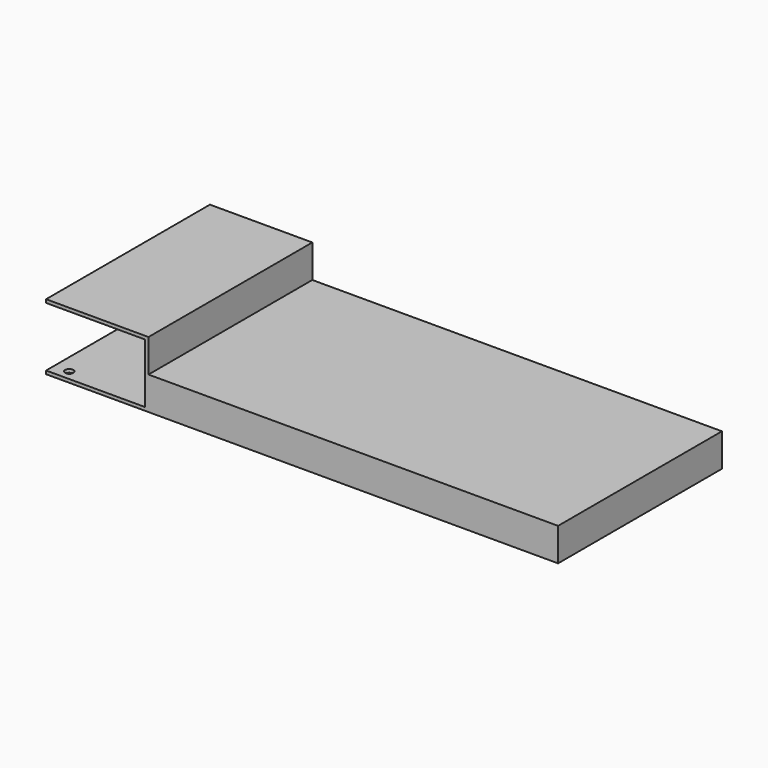
from build123d import *

# Parameters (mm, degrees)
F1_DEPTH = 620
F2_R     = 12.5
F3_DEPTH = 25
F5_DEPTH = 300
F6_W     = 620
F6_H     = 100
F7_DEPTH = 620
F8_R     = 12.5
F9_DEPTH = 25


with BuildPart() as f1:
    # F0 (on Front) → F1 (new body)
    with BuildSketch(Plane.XZ):
        Polygon((266.030722, -36.945744), (266.030722, 63.054256), (-353.969278, 63.054256), (-353.969278, 163.054256), (-663.969278, 163.054256), (-663.969278, -36.945744), (-353.969278, -36.945744), align=None)
    extrude(amount=F1_DEPTH)

    # F2 (on face) → F3 (cut)
    with BuildSketch(Plane(origin=(0, 0, -36.945744), x_dir=(1, 0, 0), z_dir=(0, 0, -1))):
        with Locations((-618.232899, 589.50908)):
            Circle(F2_R)
        with Locations((-618.232899, 30.49092)):
            Circle(F2_R)
        with Locations((220.294342, 589.50908)):
            Circle(F2_R)
        with Locations((220.294342, 30.49092)):
            Circle(F2_R)
    extrude(amount=-F3_DEPTH, mode=Mode.SUBTRACT)

    # F4 (on face) → F5 (cut)
    with BuildSketch(Plane(origin=(-663.969278, 0, 0), x_dir=(0, -1, 0), z_dir=(-1, 0, 0))):
        Polygon((634.776235, 153.054256), (610, 153.054256), (10, 153.054256), (10, -26.945745), (610, -26.945745), (634.776235, -26.945745), align=None)
    extrude(amount=-F5_DEPTH, mode=Mode.SUBTRACT)

    # F6 (on face) → F7 (join, through all)
    with BuildSketch(Plane(origin=(0, 0, 0), x_dir=(-1, 0, 0), z_dir=(0, 1, 0))):
        with Locations((-576.030722, 13.054256)):
            Rectangle(F6_W, F6_H)
    extrude(amount=-F7_DEPTH)

    # F8 (on face) → F9 (cut, through all)
    with BuildSketch(Plane(origin=(0, 0, -36.945744), x_dir=(1, 0, 0), z_dir=(0, 0, -1))):
        with Locations((840.294342, 589.50908)):
            Circle(F8_R)
        with Locations((840.294342, 30.49092)):
            Circle(F8_R)
    extrude(amount=-F9_DEPTH, mode=Mode.SUBTRACT)


solid = f1.part
